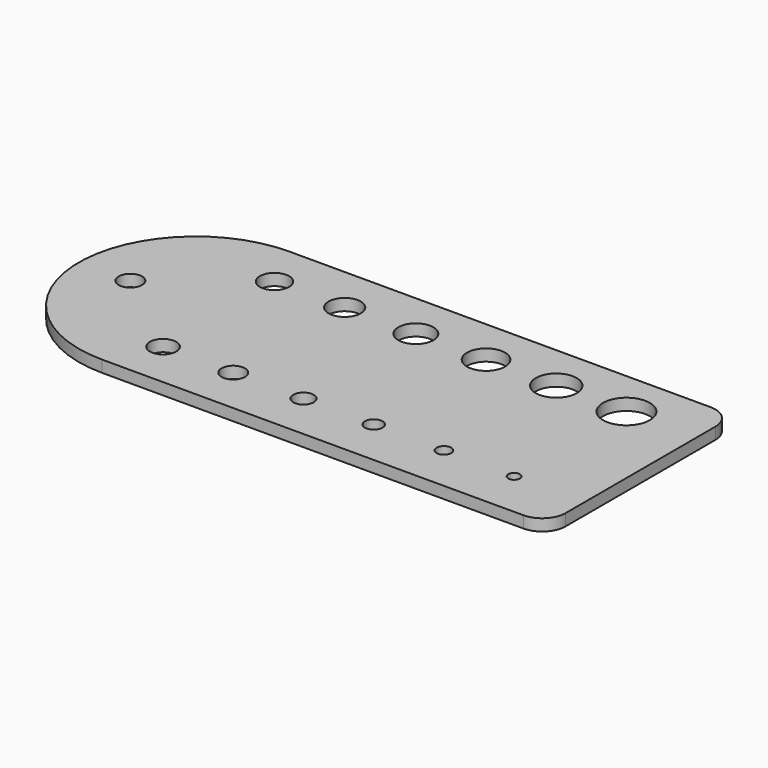
from build123d import *

# Parameters (mm, degrees)
F0_R     = 3.175
F0_R_2   = 3.571875
F0_R_3   = 3.96875
F0_R_4   = 4.365625
F0_R_5   = 2.778125
F0_R_6   = 2.38125
F0_R_7   = 4.7625
F0_R_8   = 5.159375
F0_R_9   = 1.984375
F0_R_10  = 1.5875
F0_R_11  = 5.55625
F0_R_12  = 6.35
F1_DEPTH = 3.175


with BuildPart() as f1:
    # F0 (on Top) → F1 (new body)
    with BuildSketch(Plane.XY):
        with BuildLine():
            ThreePointArc((0, 63.5), (-31.75, 31.75), (0, 0))
            Line((0, 0), (114.3, 0))
            ThreePointArc((114.3, 0), (118.790128, 1.859872), (120.65, 6.35))
            Line((120.65, 6.35), (120.65, 57.15))
            ThreePointArc((120.65, 57.15), (118.790128, 61.640128), (114.3, 63.5))
            Line((114.3, 63.5), (0, 63.5))
        make_face()
        with Locations((-17.970501, 32.004002)):
            Circle(F0_R, mode=Mode.SUBTRACT)
        with Locations((6.35, 12.7)):
            Circle(F0_R_2, mode=Mode.SUBTRACT)
        with Locations((6.100903, 50.8)):
            Circle(F0_R_3, mode=Mode.SUBTRACT)
        with Locations((25.150903, 50.8)):
            Circle(F0_R_4, mode=Mode.SUBTRACT)
        with Locations((25.4, 12.7)):
            Circle(F0_R, mode=Mode.SUBTRACT)
        with Locations((44.45, 12.7)):
            Circle(F0_R_5, mode=Mode.SUBTRACT)
        with Locations((63.5, 12.7)):
            Circle(F0_R_6, mode=Mode.SUBTRACT)
        with Locations((44.45, 50.8)):
            Circle(F0_R_7, mode=Mode.SUBTRACT)
        with Locations((63.5, 50.8)):
            Circle(F0_R_8, mode=Mode.SUBTRACT)
        with Locations((82.55, 12.7)):
            Circle(F0_R_9, mode=Mode.SUBTRACT)
        with Locations((101.6, 12.7)):
            Circle(F0_R_10, mode=Mode.SUBTRACT)
        with Locations((82.55, 50.8)):
            Circle(F0_R_11, mode=Mode.SUBTRACT)
        with Locations((101.6, 50.8)):
            Circle(F0_R_12, mode=Mode.SUBTRACT)
    extrude(amount=F1_DEPTH)


solid = f1.part
